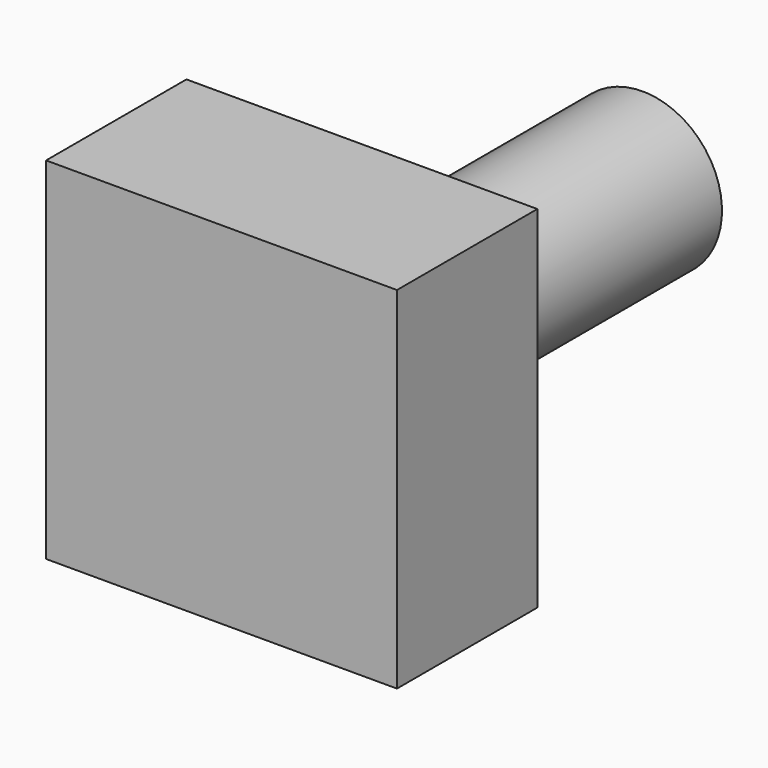
from build123d import *

# Parameters (mm, degrees)
F0_W     = 25.4
F0_H     = 12.7
F1_DEPTH = 25.4
F3_DEPTH = 25.4


with BuildPart() as f1:
    # F0 (on Top) → F1 (new body)
    with BuildSketch(Plane.XY):
        with Locations((12.7, 6.35)):
            Rectangle(F0_W, F0_H)
        with Locations((12.7, 6.35)):
            Rectangle(F0_W, F0_H)
    extrude(amount=F1_DEPTH)

    # F2 (on face) → F3 (join)
    with BuildSketch(Plane(origin=(0, 12.7, 0), x_dir=(-1, 0, 0), z_dir=(0, 1, 0))):
        with BuildLine():
            Line((-12.7, 12.7), (-6.9540247637, 12.7))
            ThreePointArc((-6.9540247637, 12.7), (-16.7630180541, 16.7630180541), (-12.7, 6.9540247637))
            Line((-12.7, 6.9540247637), (-12.7, 12.7))
        make_face()
    extrude(amount=F3_DEPTH)


solid = f1.part
